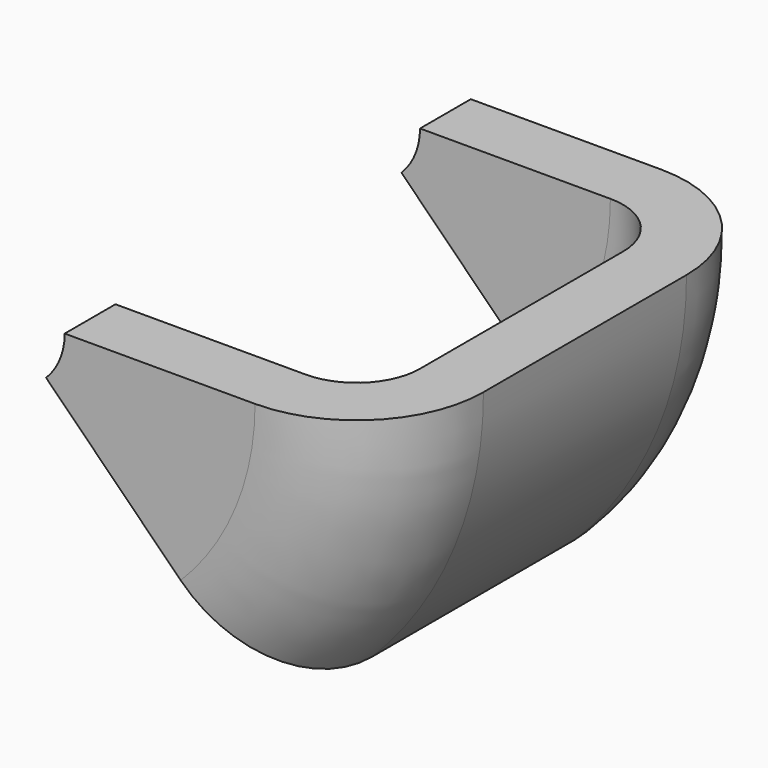
from build123d import *

# Parameters (mm, degrees)
F1_ANGLE = 45


with BuildPart() as f1:
    # F0 (on Top) → F1 (revolve)
    with BuildSketch(Plane.XY):
        with BuildLine():
            ThreePointArc((-190.874291, -111.687726), (-193.038069, -106.463904), (-198.261891, -104.300127))
            Line((-198.261891, -104.300127), (-213.236755, -104.300127))
            Line((-213.236755, -104.300127), (-213.236755, -106.696105))
            Line((-213.236755, -106.696105), (-198.261891, -106.696105))
            ThreePointArc((-198.261891, -106.696105), (-194.732281, -108.158117), (-193.270269, -111.687726))
            Line((-193.270269, -111.687726), (-193.270269, -131.654212))
            ThreePointArc((-193.270269, -131.654212), (-194.732281, -135.183821), (-198.261891, -136.645833))
            Line((-198.261891, -136.645833), (-213.236755, -136.645833))
            Line((-213.236755, -136.645833), (-213.236755, -139.041811))
            Line((-213.236755, -139.041811), (-198.261891, -139.041811))
            ThreePointArc((-198.261891, -139.041811), (-193.038069, -136.878033), (-190.874291, -131.654212))
            Line((-190.874291, -131.654212), (-190.874291, -111.687726))
        make_face()
        with BuildLine():
            Line((-213.236755, -104.300127), (-198.261891, -104.300127))
            ThreePointArc((-198.261891, -104.300127), (-193.038069, -106.463904), (-190.874291, -111.687726))
            Line((-190.874291, -111.687726), (-190.874291, -131.654212))
            ThreePointArc((-190.874291, -131.654212), (-193.038069, -136.878033), (-198.261891, -139.041811))
            Line((-198.261891, -139.041811), (-213.236755, -139.041811))
            Line((-213.236755, -139.041811), (-213.236755, -141.637454))
            Line((-213.236755, -141.637454), (-198.261891, -141.637454))
            ThreePointArc((-198.261891, -141.637454), (-191.202672, -138.71343), (-188.278648, -131.654212))
            Line((-188.278648, -131.654212), (-188.278648, -111.687726))
            ThreePointArc((-188.278648, -111.687726), (-191.202672, -104.628507), (-198.261891, -101.704483))
            Line((-198.261891, -101.704483), (-213.236755, -101.704483))
            Line((-213.236755, -101.704483), (-213.236755, -104.300127))
        make_face()
    revolve(axis=Axis((-218.236755, -121.670969, 0), (0, 1, 0)), revolution_arc=F1_ANGLE)


solid = f1.part
